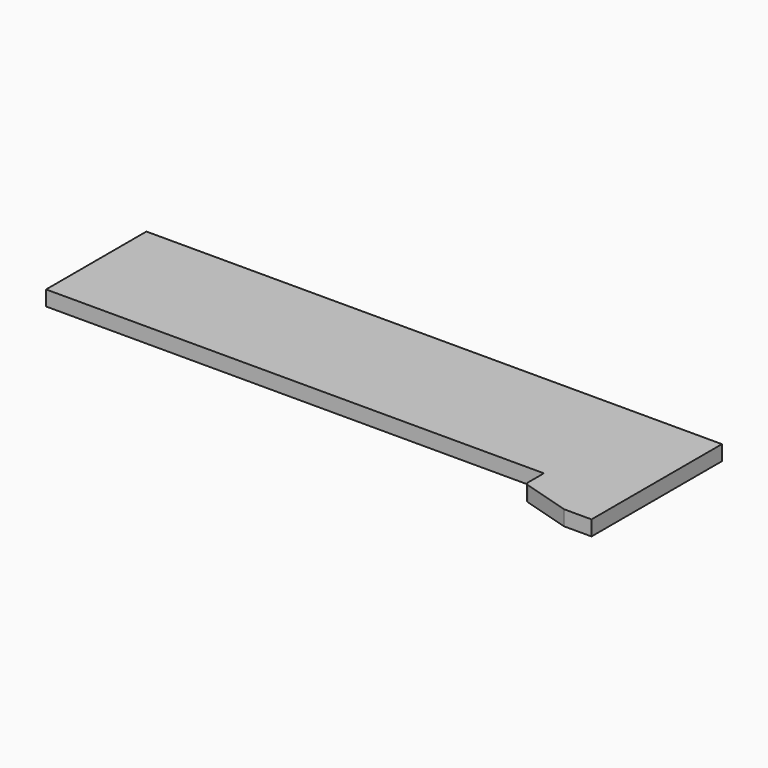
from build123d import *

# Parameters (mm, degrees)
F1_DEPTH = 12
F2_R     = 3


with BuildPart() as f1:
    # F0 (on Top) → F1 (new body)
    with BuildSketch(Plane.XY):
        Polygon((207.5, 0), (229.5, 0), (229.5, 130), (-229.5, 130), (-229.5, 30), (167.5, 30), (167.5, 12), align=None)
    extrude(amount=F1_DEPTH)

    # F2
    f2_edges = [f1.edges().sort_by_distance(p)[0] for p in [
        (207.5, 0, 6),
        (167.5, 12, 6),
    ]]
    fillet(f2_edges, radius=F2_R)


solid = f1.part
